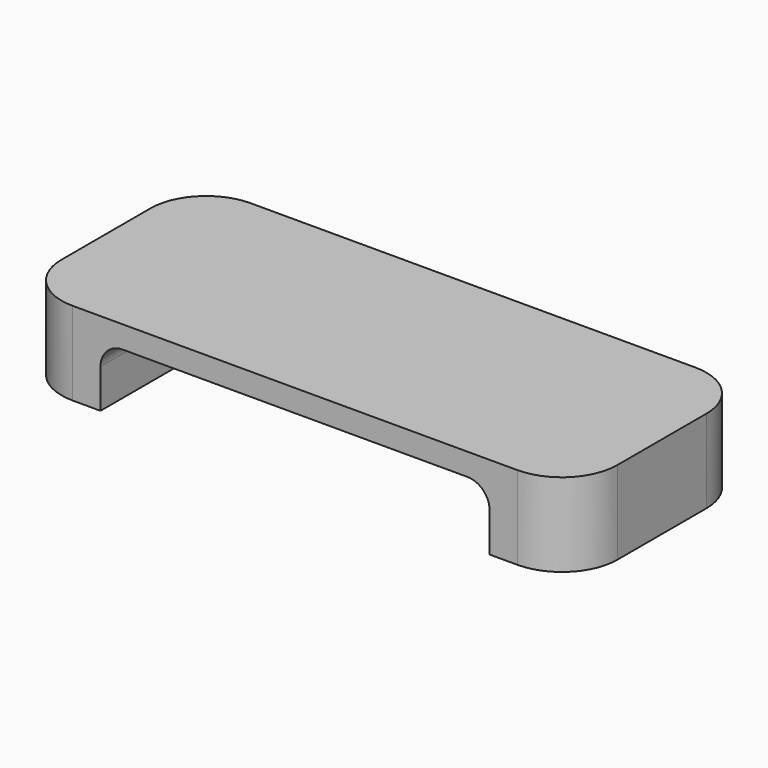
from build123d import *

# Parameters (mm, degrees)
F0_W     = 127
F0_H     = 50.8
F1_DEPTH = 19.05
F2_W     = 88.9
F2_H     = 13.97
F3_DEPTH = 38.1
F4_R     = 5.08
F5_R     = 12.7


with BuildPart() as f1:
    # F0 (on Top) → F1 (new body)
    with BuildSketch(Plane.XY):
        Rectangle(F0_W, F0_H)
    extrude(amount=F1_DEPTH)

    # F2 (on face) → F3 (cut)
    with BuildSketch(Plane.XZ.offset(25.4)):
        with Locations((0, 6.985)):
            Rectangle(F2_W, F2_H)
    extrude(amount=-F3_DEPTH, mode=Mode.SUBTRACT)

    # F4
    f4_edges = [f1.edges().sort_by_distance(p)[0] for p in [
        (44.45, -6.35, 13.97),
        (0, 12.7, 13.97),
        (-44.45, -6.35, 13.97),
    ]]
    fillet(f4_edges, radius=F4_R)

    # F5
    f5_edges = [f1.edges().sort_by_distance(p)[0] for p in [
        (-63.5, 25.4, 9.525),
        (63.5, 25.4, 9.525),
        (-63.5, -25.4, 9.525),
        (63.5, -25.4, 9.525),
    ]]
    fillet(f5_edges, radius=F5_R)


solid = f1.part
